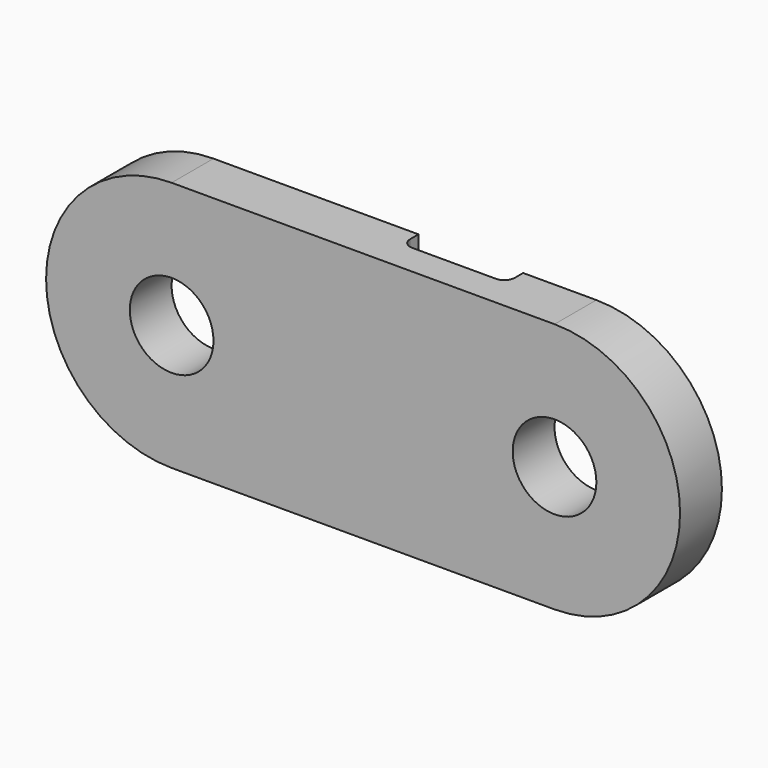
from build123d import *

# Parameters (mm, degrees)
F0_R     = 4
F1_DEPTH = 5
F2_W     = 10
F2_H     = 2
F3_DEPTH = 24.001
F4_R     = 1


with BuildPart() as f1:
    # F0 (on Front) → F1 (new body)
    with BuildSketch(Plane.XZ):
        with BuildLine():
            Line((14.836441, 12), (-21.763559, 12))
            ThreePointArc((-21.763559, 12), (-33.763559, 0), (-21.763559, -12))
            Line((-21.763559, -12), (14.836441, -12))
            ThreePointArc((14.836441, -12), (26.836441, 0), (14.836441, 12))
        make_face()
        with Locations((-21.763559, 0)):
            Circle(F0_R, mode=Mode.SUBTRACT)
        with Locations((14.836441, 0)):
            Circle(F0_R, mode=Mode.SUBTRACT)
    extrude(amount=F1_DEPTH)

    # F2 (on face) → F3 (cut, through all)
    with BuildSketch(Plane.XY.offset(12)):
        with Locations((2.836441, -1)):
            Rectangle(F2_W, F2_H)
    extrude(amount=-F3_DEPTH, mode=Mode.SUBTRACT)

    # F4
    f4_edges = [f1.edges().sort_by_distance(p)[0] for p in [
        (7.836441, -2, 0),
        (-2.163559, -2, 0),
    ]]
    fillet(f4_edges, radius=F4_R)


solid = f1.part
